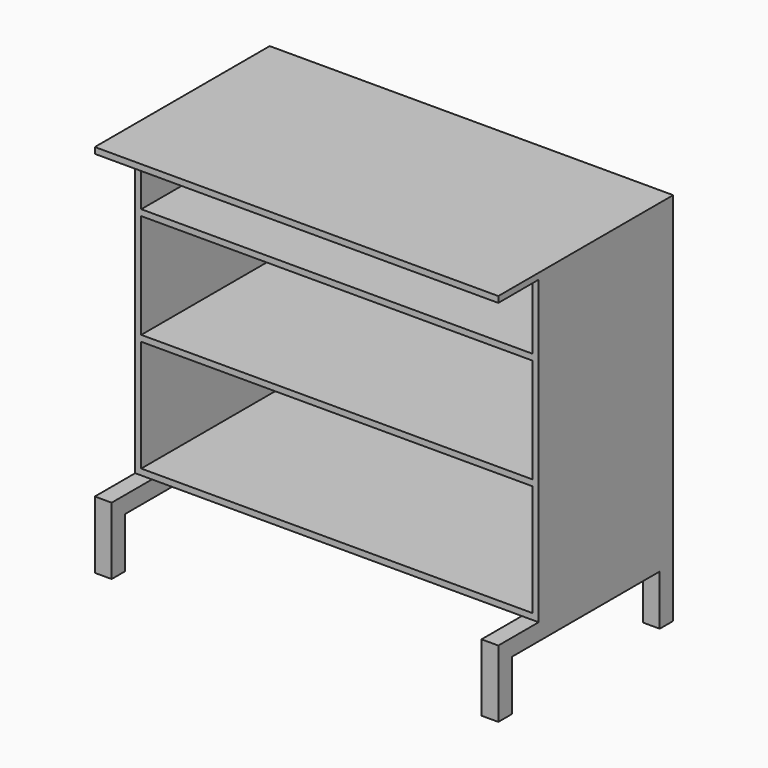
from build123d import *

# Parameters (mm, degrees)
F1_DEPTH  = 500
F3_W      = 50
F3_H      = 50
F4_DEPTH  = 650
F5_W      = 50
F5_H      = 50
F6_DEPTH  = 200
F8_W      = 1200
F8_H      = 18
F9_DEPTH  = 150
F11_DEPTH = 1164


with BuildPart() as f1:
    # F0 (on Front) → F1 (new body)
    with BuildSketch(Plane.XZ):
        Polygon((0, 1115), (-600, 1115), (-600, 200), (0, 200), (0, 218), (-582, 218), (-582, 1097), (0, 1097), align=None)
    extrude(amount=F1_DEPTH)

    # F3 (on offset) → F4 (join)
    with BuildSketch(Plane.XZ):
        with Locations((-575, 175)):
            Rectangle(F3_W, F3_H)
    extrude(amount=F4_DEPTH)

    # F5 (on Top) → F6 (join)
    with BuildSketch(Plane.XY):
        with Locations((-575, -25)):
            Rectangle(F5_W, F5_H)
        with Locations((-575, -625)):
            Rectangle(F5_W, F5_H)
    extrude(amount=F6_DEPTH)

    # F7: F1 across plane


with BuildPart() as f1_1:
    add(f1.part)
    add(f1.part.mirror(Plane.YZ))

    # F8 (on face) → F9 (join)
    with BuildSketch(Plane.XZ.offset(500)):
        with Locations((0, 1106)):
            Rectangle(F8_W, F8_H)
    extrude(amount=F9_DEPTH)

    # F10 (on face) → F11 (join, through all)
    with BuildSketch(Plane.YZ.offset(-582)):
        Polygon((0, 897), (-500, 897), (-500, 879), (-18, 879), (-18, 568), (-500, 568), (-500, 550), (0, 550), align=None)
    extrude(amount=F11_DEPTH)


solid = f1_1.part
